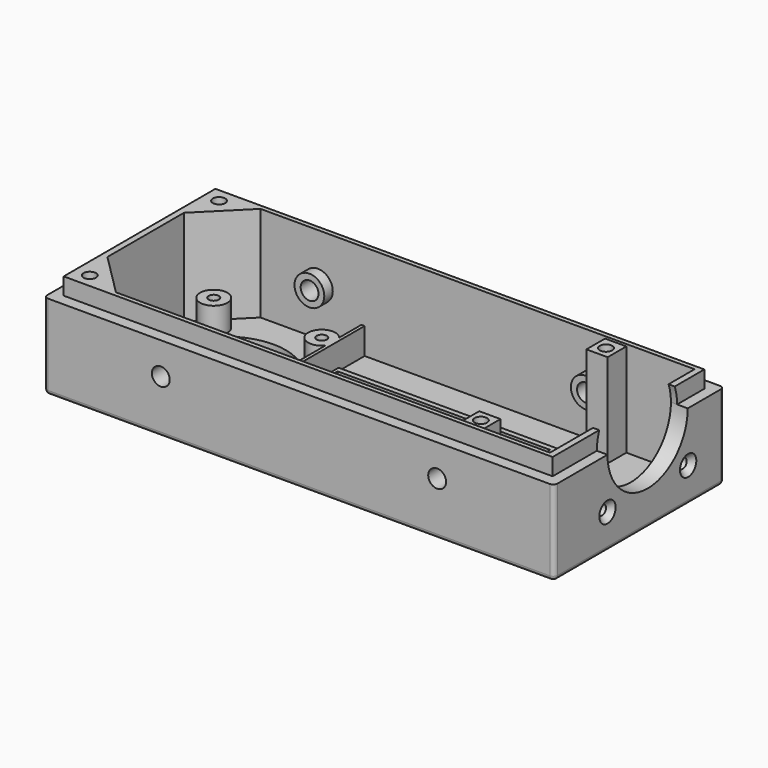
from build123d import *

# Parameters (mm, degrees)
SKETCH_W            = 152.4
SKETCH_H            = 63.5
PAD_DEPTH           = 25.4
SKETCH001_W         = 146.05
SKETCH001_H         = 56.642
PAD001_DEPTH        = 5.08
SKETCH002_W         = 142.367
SKETCH002_H         = 53.975
POCKET_DEPTH        = 28.575
FILLET_R            = 1.27
CHAMFER_SIZE        = 12.7
SKETCH003_R         = 1.8669
HOLE_DEPTH          = 19.05
HOLE_TIPS_R         = 1.8669
SKETCH004_R         = 14.986
POCKET001_DEPTH     = 12.7
SKETCH006_R         = 18.288
POCKET003_DEPTH     = 5.0038
SKETCH007_R         = 4.064
PAD002_DEPTH        = 7.8994
SKETCH008_R         = 1.524
HOLE001_DEPTH       = 8.89
HOLE001_TIPS_R      = 1.524
SKETCH010_W         = 0.958809
SKETCH010_H         = 53.975
PAD003_DEPTH        = 7.8994
SKETCH011_W         = 6.35
SKETCH011_H         = 6.985
PAD004_DEPTH        = 27.94
SKETCH012_R         = 1.8669
HOLE002_DEPTH       = 19.05
HOLE002_TIPS_R      = 1.8669
HOLE003_D           = 2.9
HOLE003_DEPTH       = 24.9936
HOLE003_CSINK_D     = 6.1
HOLE003_CSINK_ANGLE = 90
HOLE003_TIPS_R      = 1.45
SKETCH015_R         = 4.445
PAD005_DEPTH        = 3.175
SKETCH016_R         = 2.667
HOLE004_DEPTH       = 12.7
HOLE004_TIPS_R      = 2.667
SKETCH017_R         = 4.445
PAD006_DEPTH        = 3.175
SKETCH018_R         = 2.667
HOLE005_DEPTH       = 12.7
HOLE005_TIPS_R      = 2.667
SKETCH009_W         = 65.405
SKETCH009_H         = 27.94
PAD007_DEPTH        = 3.048
SKETCH005_W         = 60.452
SKETCH005_H         = 19.6088
POCKET004_DEPTH     = 10.16
SKETCH019_W         = 63.5
SKETCH019_H         = 25.4
POCKET005_DEPTH     = 3.175


with BuildPart() as part:
    # Sketch → Pad (new body)
    with BuildSketch(Plane.XY):
        Rectangle(SKETCH_W, SKETCH_H)
    extrude(amount=PAD_DEPTH)

    # Sketch001 (on Face6 of Pad) → Pad001 (join)
    with BuildSketch(Plane.XY.offset(25.4)):
        Rectangle(SKETCH001_W, SKETCH001_H)
    extrude(amount=PAD001_DEPTH)

    # Sketch002 (on Face11 of Pad001) → Pocket (cut)
    with BuildSketch(Plane.XY.offset(30.48)):
        Rectangle(SKETCH002_W, SKETCH002_H)
    extrude(amount=-POCKET_DEPTH, mode=Mode.SUBTRACT)

    # Fillet
    fillet_edges = [part.edges().sort_by_distance(p)[0] for p in [
        (0, 31.75, 0),
        (-76.2, 0, 0),
        (0, -31.75, 0),
        (76.2, 0, 0),
        (-76.2, 31.75, 12.7),
        (76.2, 31.75, 12.7),
        (76.2, -31.75, 12.7),
        (-76.2, -31.75, 12.7),
    ]]
    fillet(fillet_edges, radius=FILLET_R)

    # Chamfer
    chamfer_edges = [part.edges().sort_by_distance(p)[0] for p in [
        (-71.1835, 26.9875, 16.1925),
        (-71.1835, -26.9875, 16.1925),
    ]]
    chamfer(chamfer_edges, length=CHAMFER_SIZE)

    # Sketch003 (on Face1 of Chamfer) → Hole (cut)
    with BuildSketch(Plane.XY.offset(30.48)):
        with Locations((-68.58, 24.13)):
            Circle(SKETCH003_R)
        with Locations((-68.58, -24.13)):
            Circle(SKETCH003_R)
    extrude(amount=-HOLE_DEPTH, mode=Mode.SUBTRACT)

    # Hole tips → Hole tip 1 section 0
    with BuildSketch(Plane.XY.offset(11.43), mode=Mode.PRIVATE) as hole_tip_1_s0:
        with Locations((-68.58, 24.13)):
            Circle(HOLE_TIPS_R)
    loft([hole_tip_1_s0.sketch, Vertex(-68.58, 24.13, 10.308253)], mode=Mode.SUBTRACT)

    # Hole tips → Hole tip 2 section 0
    with BuildSketch(Plane.XY.offset(11.43), mode=Mode.PRIVATE) as hole_tip_2_s0:
        with Locations((-68.58, -24.13)):
            Circle(HOLE_TIPS_R)
    loft([hole_tip_2_s0.sketch, Vertex(-68.58, -24.13, 10.308253)], mode=Mode.SUBTRACT)

    # Sketch004 (on Face25 of Hole) → Pocket001 (cut)
    with BuildSketch(Plane.YZ.offset(76.2)):
        with Locations((3.175, 25.4)):
            Circle(SKETCH004_R)
    extrude(amount=-POCKET001_DEPTH, mode=Mode.SUBTRACT)

    # Sketch006 → Pocket003 (cut)
    with BuildSketch(Plane(origin=(0, 0, 0), x_dir=(1, 0, 0), z_dir=(0, 0, -1))):
        with Locations((-47.625, 0)):
            Circle(SKETCH006_R)
    extrude(amount=-POCKET003_DEPTH, mode=Mode.SUBTRACT)

    # Sketch007 (on Face18 of Pocket003) → Pad002 (join)
    with BuildSketch(Plane.XY.offset(1.905)):
        with Locations((-63.754, 16.129)):
            Circle(SKETCH007_R)
        with Locations((-31.496, 16.129)):
            Circle(SKETCH007_R)
        with Locations((-31.496, -16.129)):
            Circle(SKETCH007_R)
        with Locations((-63.754, -16.129)):
            Circle(SKETCH007_R)
    extrude(amount=PAD002_DEPTH)

    # Sketch008 (on Face19 of Pad002) → Hole001 (cut)
    with BuildSketch(Plane.XY.offset(9.8044)):
        with Locations((-63.754, 16.129)):
            Circle(SKETCH008_R)
        with Locations((-31.496, 16.129)):
            Circle(SKETCH008_R)
        with Locations((-31.496, -16.129)):
            Circle(SKETCH008_R)
        with Locations((-63.754, -16.129)):
            Circle(SKETCH008_R)
    extrude(amount=-HOLE001_DEPTH, mode=Mode.SUBTRACT)

    # Hole001 tips → Hole001 tip 1 section 0
    with BuildSketch(Plane.XY.offset(0.9144), mode=Mode.PRIVATE) as hole001_tip_1_s0:
        with Locations((-63.754, 16.129)):
            Circle(HOLE001_TIPS_R)
    loft([hole001_tip_1_s0.sketch, Vertex(-63.754, 16.129, -0.001312)], mode=Mode.SUBTRACT)

    # Hole001 tips → Hole001 tip 2 section 0
    with BuildSketch(Plane.XY.offset(0.9144), mode=Mode.PRIVATE) as hole001_tip_2_s0:
        with Locations((-31.496, 16.129)):
            Circle(HOLE001_TIPS_R)
    loft([hole001_tip_2_s0.sketch, Vertex(-31.496, 16.129, -0.001312)], mode=Mode.SUBTRACT)

    # Hole001 tips → Hole001 tip 3 section 0
    with BuildSketch(Plane.XY.offset(0.9144), mode=Mode.PRIVATE) as hole001_tip_3_s0:
        with Locations((-31.496, -16.129)):
            Circle(HOLE001_TIPS_R)
    loft([hole001_tip_3_s0.sketch, Vertex(-31.496, -16.129, -0.001312)], mode=Mode.SUBTRACT)

    # Hole001 tips → Hole001 tip 4 section 0
    with BuildSketch(Plane.XY.offset(0.9144), mode=Mode.PRIVATE) as hole001_tip_4_s0:
        with Locations((-63.754, -16.129)):
            Circle(HOLE001_TIPS_R)
    loft([hole001_tip_4_s0.sketch, Vertex(-63.754, -16.129, -0.001312)], mode=Mode.SUBTRACT)

    # Sketch010 → Pad003 (join)
    with BuildSketch(Plane.XY.offset(1.905)):
        with Locations((-27.854217, 0)):
            Rectangle(SKETCH010_W, SKETCH010_H)
    extrude(amount=PAD003_DEPTH)

    # Sketch011 (on Face18 of Pad003) → Pad004 (join)
    with BuildSketch(Plane.XY.offset(1.905)):
        with Locations((47.625, 23.495)):
            Rectangle(SKETCH011_W, SKETCH011_H)
        with Locations((47.625, -23.495)):
            Rectangle(SKETCH011_W, SKETCH011_H)
    extrude(amount=PAD004_DEPTH)

    # Sketch012 (on Face24 of Pad004) → Hole002 (cut)
    with BuildSketch(Plane.XY.offset(29.845)):
        with Locations((47.625, 23.368)):
            Circle(SKETCH012_R)
        with Locations((47.625, -23.368)):
            Circle(SKETCH012_R)
    extrude(amount=-HOLE002_DEPTH, mode=Mode.SUBTRACT)

    # Hole002 tips → Hole002 tip 1 section 0
    with BuildSketch(Plane.XY.offset(10.795), mode=Mode.PRIVATE) as hole002_tip_1_s0:
        with Locations((47.625, 23.368)):
            Circle(HOLE002_TIPS_R)
    loft([hole002_tip_1_s0.sketch, Vertex(47.625, 23.368, 9.673253)], mode=Mode.SUBTRACT)

    # Hole002 tips → Hole002 tip 2 section 0
    with BuildSketch(Plane.XY.offset(10.795), mode=Mode.PRIVATE) as hole002_tip_2_s0:
        with Locations((47.625, -23.368)):
            Circle(HOLE002_TIPS_R)
    loft([hole002_tip_2_s0.sketch, Vertex(47.625, -23.368, 9.673253)], mode=Mode.SUBTRACT)

    # Hole003
    with Locations(Plane.YZ.offset(76.2)):
        with Locations((-11.811, 10.3378), (18.3134, 10.3378)):
            CounterSinkHole(HOLE003_D / 2, HOLE003_CSINK_D / 2, depth=HOLE003_DEPTH, counter_sink_angle=HOLE003_CSINK_ANGLE)

    # Hole003 tips → Hole003 tip 1 section 0
    with BuildSketch(Plane.YZ.offset(51.2064), mode=Mode.PRIVATE) as hole003_tip_1_s0:
        with Locations((-11.811, 10.3378)):
            Circle(HOLE003_TIPS_R)
    loft([hole003_tip_1_s0.sketch, Vertex(50.335152, -11.811, 10.3378)], mode=Mode.SUBTRACT)

    # Hole003 tips → Hole003 tip 2 section 0
    with BuildSketch(Plane.YZ.offset(51.2064), mode=Mode.PRIVATE) as hole003_tip_2_s0:
        with Locations((18.3134, 10.3378)):
            Circle(HOLE003_TIPS_R)
    loft([hole003_tip_2_s0.sketch, Vertex(50.335152, 18.3134, 10.3378)], mode=Mode.SUBTRACT)

    # Sketch015 → Pad005 (join)
    with BuildSketch(Plane(origin=(0, -26.9875, 0), x_dir=(-1, 0, 0), z_dir=(0, 1, 0))):
        with Locations((-41.177467, 15.875)):
            Circle(SKETCH015_R)
        with Locations((41.342368, 15.875)):
            Circle(SKETCH015_R)
    extrude(amount=PAD005_DEPTH)

    # Sketch016 (on Face43 of Pad005) → Hole004 (cut)
    with BuildSketch(Plane.XZ.offset(31.75)):
        with Locations((-41.275, 15.875)):
            Circle(SKETCH016_R)
        with Locations((41.275, 15.875)):
            Circle(SKETCH016_R)
    extrude(amount=-HOLE004_DEPTH, mode=Mode.SUBTRACT)

    # Hole004 tips → Hole004 tip 1 section 0
    with BuildSketch(Plane.XZ.offset(19.05), mode=Mode.PRIVATE) as hole004_tip_1_s0:
        with Locations((-41.275, 15.875)):
            Circle(HOLE004_TIPS_R)
    loft([hole004_tip_1_s0.sketch, Vertex(-41.275, -17.447505, 15.875)], mode=Mode.SUBTRACT)

    # Hole004 tips → Hole004 tip 2 section 0
    with BuildSketch(Plane.XZ.offset(19.05), mode=Mode.PRIVATE) as hole004_tip_2_s0:
        with Locations((41.275, 15.875)):
            Circle(HOLE004_TIPS_R)
    loft([hole004_tip_2_s0.sketch, Vertex(41.275, -17.447505, 15.875)], mode=Mode.SUBTRACT)

    # Sketch017 (on Face6 of Hole004) → Pad006 (join)
    with BuildSketch(Plane.XZ.offset(-26.9875)):
        with Locations((-41.3385, 15.875)):
            Circle(SKETCH017_R)
        with Locations((41.2115, 15.875)):
            Circle(SKETCH017_R)
    extrude(amount=PAD006_DEPTH)

    # Sketch018 (on Face43 of Pad006) → Hole005 (cut)
    with BuildSketch(Plane(origin=(0, 31.75, 0), x_dir=(-1, 0, 0), z_dir=(0, 1, 0))):
        with Locations((-41.275, 15.875)):
            Circle(SKETCH018_R)
        with Locations((41.275, 15.875)):
            Circle(SKETCH018_R)
    extrude(amount=-HOLE005_DEPTH, mode=Mode.SUBTRACT)

    # Hole005 tips → Hole005 tip 1 section 0
    with BuildSketch(Plane(origin=(0, 19.05, 0), x_dir=(-1, 0, 0), z_dir=(0, 1, 0)), mode=Mode.PRIVATE) as hole005_tip_1_s0:
        with Locations((-41.275, 15.875)):
            Circle(HOLE005_TIPS_R)
    loft([hole005_tip_1_s0.sketch, Vertex(41.275, 17.447505, 15.875)], mode=Mode.SUBTRACT)

    # Hole005 tips → Hole005 tip 2 section 0
    with BuildSketch(Plane(origin=(0, 19.05, 0), x_dir=(-1, 0, 0), z_dir=(0, 1, 0)), mode=Mode.PRIVATE) as hole005_tip_2_s0:
        with Locations((41.275, 15.875)):
            Circle(HOLE005_TIPS_R)
    loft([hole005_tip_2_s0.sketch, Vertex(-41.275, 17.447505, 15.875)], mode=Mode.SUBTRACT)

    # Sketch009 (on Face18 of Hole001) → Pad007 (join)
    with BuildSketch(Plane.XY.offset(1.905)):
        with Locations((7.9375, 0.0254)):
            Rectangle(SKETCH009_W, SKETCH009_H)
    extrude(amount=PAD007_DEPTH)

    # Sketch005 (on Face35 of Pocket001) → Pocket004 (cut)
    with BuildSketch(Plane(origin=(0, 0, 0), x_dir=(1, 0, 0), z_dir=(0, 0, -1))):
        with Locations((7.874, 0)):
            Rectangle(SKETCH005_W, SKETCH005_H)
    extrude(amount=-POCKET004_DEPTH, mode=Mode.SUBTRACT)

    # Sketch019 (on Face84 of Pocket004) → Pocket005 (cut)
    with BuildSketch(Plane.XY.offset(4.953)):
        with Locations((7.956801, -0.2794)):
            Rectangle(SKETCH019_W, SKETCH019_H)
    extrude(amount=-POCKET005_DEPTH, mode=Mode.SUBTRACT)


solid = part.part
